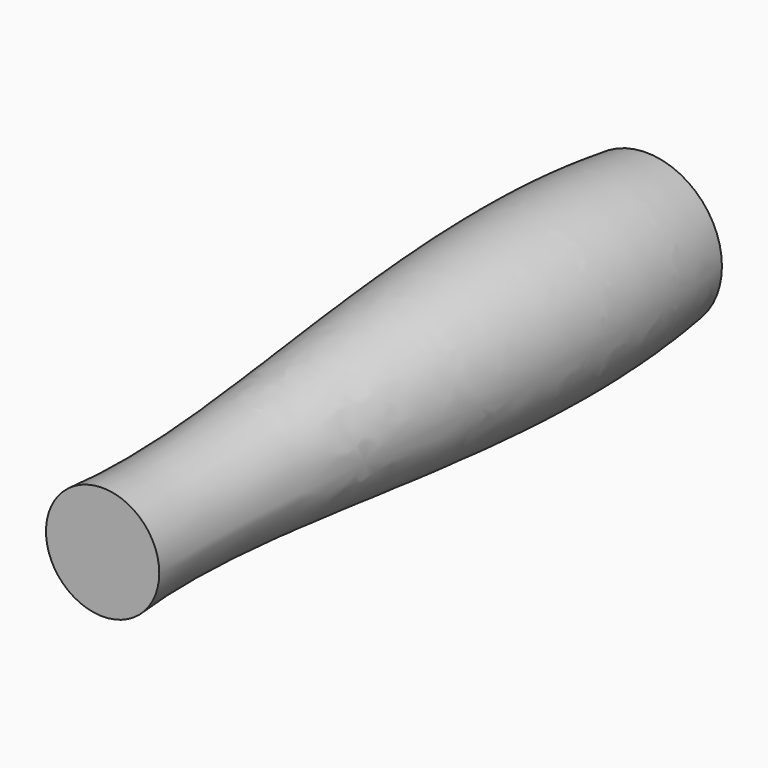
from build123d import *


with BuildPart() as f1:
    # F0 (on Top) → F1 (revolve)
    with BuildSketch(Plane.XY):
        with BuildLine():
            Line((20, 0), (0, 0))
            Line((0, 0), (0, -180))
            Line((0, -180), (15, -180))
            add(Edge.make_bspline(
                [(15, -180), (10.579701, -129.475752), (28.58697, -61.099467), (20, 0)],
                knots=[0, 0, 0, 0, 180.069431, 180.069431, 180.069431, 180.069431], degree=3))
        make_face()
    revolve(axis=Axis((0, -90, 0), (0, -1, 0)))


solid = f1.part
